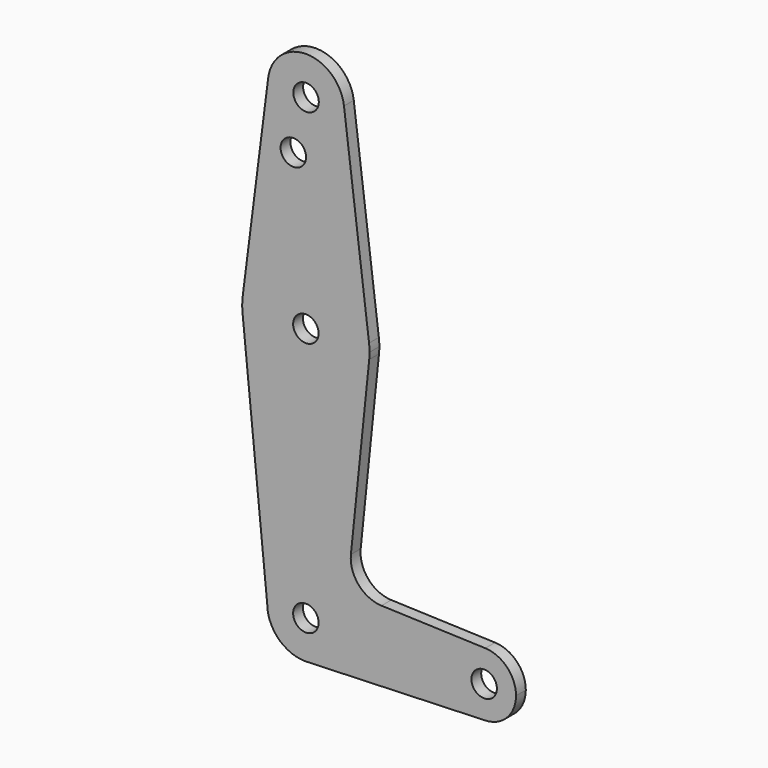
from build123d import *

# Parameters (mm, degrees)
F0_R     = 3.175
F1_DEPTH = 3.048


with BuildPart() as f1:
    # F0 (on Front) → F1 (new body)
    with BuildSketch(Plane.XZ):
        with BuildLine():
            ThreePointArc((0.447973, -9.508368), (6.816599, -6.533244), (9.41034, 0))
            ThreePointArc((9.41034, 0), (-0.11466, 9.525), (-9.63966, 0))
            ThreePointArc((-9.63966, 0), (-6.809191, -6.775609), (0, -9.52431))
            Line((0, -9.52431), (0.447973, -9.508368))
        make_face()
        Circle(F0_R, mode=Mode.SUBTRACT)
        with BuildLine():
            ThreePointArc((-9.63966, 0), (-0.11466, 9.525), (9.41034, 0))
            ThreePointArc((9.41034, 0), (6.816599, -6.533244), (0.447973, -9.508368))
            Line((0.447973, -9.508368), (44.732283, -7.932479))
            ThreePointArc((44.732283, -7.932479), (36.5125, 9e-06), (44.732301, 7.932478))
            Line((44.732301, 7.932478), (18.85243, 8.853491))
            ThreePointArc((18.85243, 8.853491), (13.138443, 11.579006), (11.226928, 17.614252))
            Line((11.226928, 17.614252), (15.791243, 61.871423))
            ThreePointArc((15.791243, 61.871423), (-0.029107, 47.625027), (-15.797109, 61.929341))
            Line((-15.797109, 61.929341), (-9.63966, 0))
        make_face()
        with BuildLine():
            ThreePointArc((0, -9.52431), (0.22408, -9.518975), (0.447973, -9.508368))
            Line((0.447973, -9.508368), (0, -9.52431))
        make_face()
        with BuildLine():
            ThreePointArc((-15.74846, 65.500406), (-15.873527, 63.716246), (-15.797109, 61.929341))
            ThreePointArc((-15.797109, 61.929341), (-0.029107, 47.625027), (15.791243, 61.871423))
            ThreePointArc((15.791243, 61.871423), (15.854047, 62.684635), (15.875, 63.5))
            ThreePointArc((15.875, 63.5), (15.844345, 64.486074), (15.7525, 65.46834))
            ThreePointArc((15.7525, 65.46834), (0.01616, 79.374992), (-15.74846, 65.500406))
        make_face()
        with Locations((0, 63.5)):
            Circle(F0_R, mode=Mode.SUBTRACT)
        with BuildLine():
            ThreePointArc((44.732301, 7.932478), (36.5125, 9e-06), (44.732283, -7.932479))
            ThreePointArc((44.732283, -7.932479), (50.16159, -5.511954), (52.3875, 0))
            ThreePointArc((52.3875, 0), (50.161597, 5.511948), (44.732301, 7.932478))
        make_face()
        with Locations((44.45, 0)):
            Circle(F0_R, mode=Mode.SUBTRACT)
        with BuildLine():
            Line((-9.397365, 115.500244), (-15.74846, 65.500406))
            ThreePointArc((-15.74846, 65.500406), (0.01616, 79.374992), (15.7525, 65.46834))
            Line((15.7525, 65.46834), (9.503212, 115.481004))
            ThreePointArc((9.503212, 115.481004), (9.558319, 114.891644), (9.576712, 114.3))
            ThreePointArc((9.576712, 114.3), (-0.54961, 104.794), (-9.397365, 115.500244))
        make_face()
        with Locations((-3.12923, 101.16819)):
            Circle(F0_R, mode=Mode.SUBTRACT)
        with BuildLine():
            ThreePointArc((9.503212, 115.481004), (0.061407, 123.824995), (-9.397365, 115.500244))
            ThreePointArc((-9.397365, 115.500244), (-0.54961, 104.794), (9.576712, 114.3))
            ThreePointArc((9.576712, 114.3), (9.558319, 114.891644), (9.503212, 115.481004))
        make_face()
        with Locations((0.051712, 114.3)):
            Circle(F0_R, mode=Mode.SUBTRACT)
    extrude(amount=F1_DEPTH)


solid = f1.part
